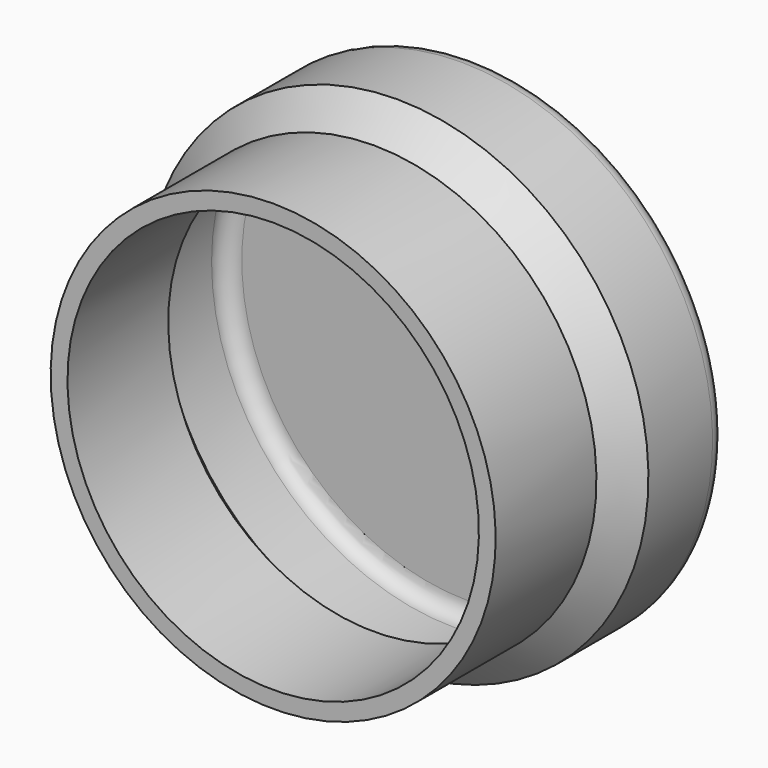
from build123d import *

# Parameters (mm, degrees)
F0_W = 15
F0_H = 2


with BuildPart() as f1:
    # F0 (on Right) → F1 (revolve)
    with BuildSketch(Plane.YZ):
        with Locations((7.5, 25.5)):
            Rectangle(F0_W, F0_H)
        Polygon((15, 26.5), (15, 24.5), (19.44, 28.94), (17.44, 28.94), align=None)
        Polygon((17.44, 28.94), (19.44, 28.94), (20.44, 29.94), (18.44, 29.94), align=None)
        with BuildLine():
            Line((29, 26.94), (29, 0))
            Line((29, 0), (30, 0))
            Line((30, 0), (30, 27.94))
            ThreePointArc((30, 27.94), (29.4142135624, 29.3542135624), (28, 29.94))
            Line((28, 29.94), (20.44, 29.94))
            Line((20.44, 29.94), (19.44, 28.94))
            Line((19.44, 28.94), (27, 28.94))
            ThreePointArc((27, 28.94), (28.4142135624, 28.3542135624), (29, 26.94))
        make_face()
    revolve(axis=Axis((0, 7.5, 0), (0, 1, 0)))


solid = f1.part
